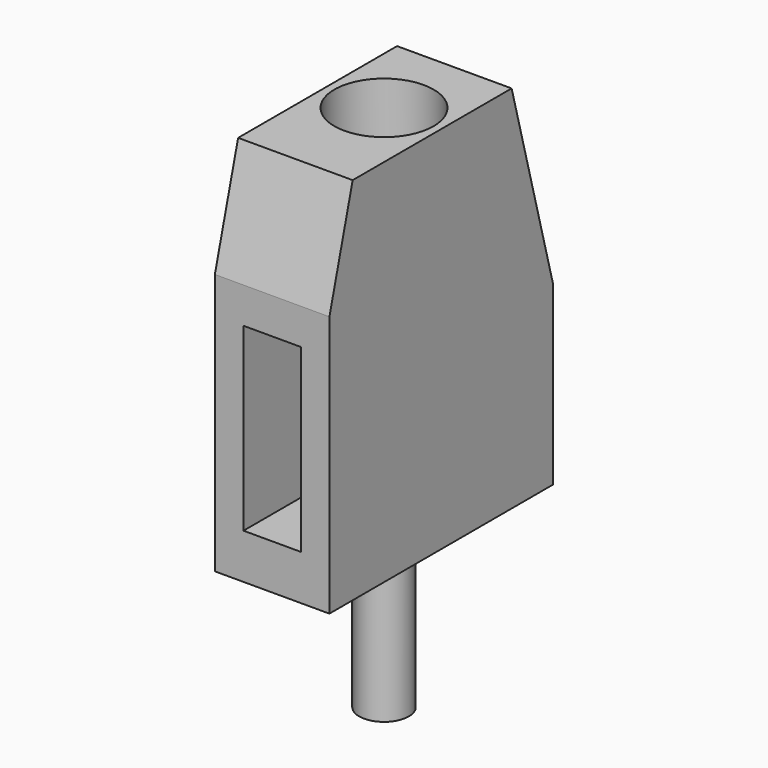
from build123d import *

# Parameters (mm, degrees)
CYLINDER009_R           = 0.55
CYLINDER009_DEPTH       = 3.5
CYLINDER008_R           = 1.1
CYLINDER008_DEPTH       = 3.5
CUBE019_W               = 4
CUBE019_H               = 6
CUBE019_DEPTH           = 9
CUBE019_PLACEMENT_ANGLE = 15
CUBE018_W               = 4
CUBE018_H               = 6
CUBE018_DEPTH           = 8
CUBE018_PLACEMENT_ANGLE = 15
CUBE017_W               = 1.27
CUBE017_H               = 3
CUBE017_DEPTH           = 4
CUBE016_W               = 2.54
CUBE016_H               = 6.2
CUBE016_DEPTH           = 8.2


with BuildPart() as cylinder009:
    # cylinder009 → cylinder009 (new body)
    with BuildSketch(Plane(origin=(1.27, 3.1, -3.5), x_dir=(1, 0, 0), z_dir=(0, 0, 1))):
        Circle(CYLINDER009_R)
    extrude(amount=CYLINDER009_DEPTH)


with BuildPart() as cylinder008:
    # cylinder008 → cylinder008 (new body)
    with BuildSketch(Plane(origin=(1.27, 3.1, 5), x_dir=(1, 0, 0), z_dir=(0, 0, 1))):
        Circle(CYLINDER008_R)
    extrude(amount=CYLINDER008_DEPTH)


with BuildPart() as cube019:
    # cube019 → cube019 (new body)
    with BuildSketch(Plane.XY):
        with Locations((2, 3)):
            Rectangle(CUBE019_W, CUBE019_H)
    extrude(amount=CUBE019_DEPTH)


with BuildPart() as cube019_1:
    # cube019 placement: moved
    add(cube019.part.moved(Location((-1, -7.244444, 1.941143))).rotate(Axis((-1, -7.244444, 1.941143), (-1, 0, 0)), CUBE019_PLACEMENT_ANGLE))


with BuildPart() as cube018:
    # cube018 → cube018 (new body)
    with BuildSketch(Plane.XY):
        with Locations((2, 3)):
            Rectangle(CUBE018_W, CUBE018_H)
    extrude(amount=CUBE018_DEPTH)


with BuildPart() as cube018_1:
    # cube018 placement: moved
    add(cube018.part.moved(Location((-1, 6.761481, 1.811733))).rotate(Axis((-1, 6.761481, 1.811733), (1, 0, 0)), CUBE018_PLACEMENT_ANGLE))


with BuildPart() as cube017:
    # cube017 → cube017 (new body)
    with BuildSketch(Plane(origin=(0.635, -1, 1), x_dir=(1, 0, 0), z_dir=(0, 0, 1))):
        with Locations((0.635, 1.5)):
            Rectangle(CUBE017_W, CUBE017_H)
    extrude(amount=CUBE017_DEPTH)


with BuildPart() as group004:
    # cube016 → cube016 (new body)
    with BuildSketch(Plane.XY):
        with Locations((1.27, 3.1)):
            Rectangle(CUBE016_W, CUBE016_H)
    extrude(amount=CUBE016_DEPTH)

    # difference016: cut cube017
    add(cube017.part, mode=Mode.SUBTRACT)

    # difference017: cut cube018
    add(cube018_1.part, mode=Mode.SUBTRACT)

    # difference018: cut cube019
    add(cube019_1.part, mode=Mode.SUBTRACT)

    # difference019: cut cylinder008
    add(cylinder008.part, mode=Mode.SUBTRACT)

    # Group004: union cylinder009
    add(cylinder009.part)


with BuildPart() as group004_1:
    # Group004 placement: moved
    add(group004.part.moved(Location((10.16, 0, 0))))


solid = group004_1.part
